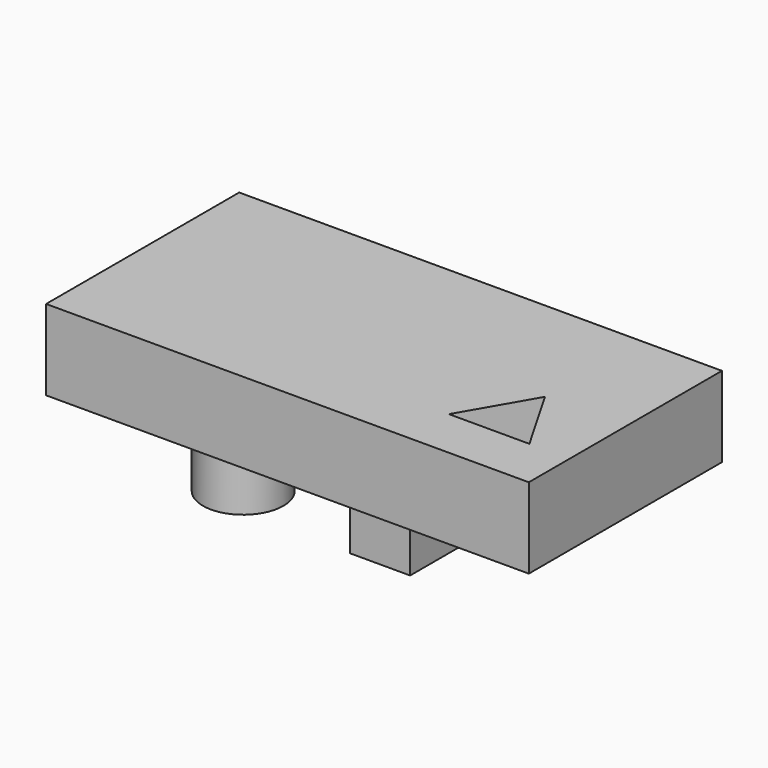
from build123d import *

# Parameters (mm, degrees)
F0_W     = 152.4
F0_H     = 76.2
F0_R     = 12.7
F1_DEPTH = 25.4
F2_DEPTH = 31.75


with BuildPart() as f1:
    # F0 (on Top) → F1 (new body)
    with BuildSketch(Plane.XY):
        with Locations((-38.1, 0)):
            Rectangle(F0_W, F0_H)
        Polygon((0, -21.997045), (12.7, 0), (25.4, -21.997045), align=None, mode=Mode.SUBTRACT)
        with Locations((-82.55, 0)):
            Circle(F0_R, mode=Mode.SUBTRACT)
        Polygon((-22.225, 9.525), (-22.225, 0), (-22.225, -9.525), (-41.275, -9.525), (-41.275, 0), (-41.275, 9.525), align=None, mode=Mode.SUBTRACT)
        with Locations((-82.55, 0)):
            Circle(F0_R)
        Polygon((-31.75, 0), (-22.225, 0), (-22.225, 9.525), (-41.275, 9.525), (-41.275, 0), align=None)
        Polygon((-22.225, -9.525), (-22.225, 0), (-31.75, 0), (-41.275, 0), (-41.275, -9.525), align=None)
    extrude(amount=F1_DEPTH)

    # F0 (on Top) → F2 (join)
    with BuildSketch(Plane.XY):
        with Locations((-82.55, 0)):
            Circle(F0_R)
        Polygon((-31.75, 0), (-22.225, 0), (-22.225, 9.525), (-41.275, 9.525), (-41.275, 0), align=None)
        Polygon((-22.225, -9.525), (-22.225, 0), (-31.75, 0), (-41.275, 0), (-41.275, -9.525), align=None)
    extrude(amount=-F2_DEPTH)


solid = f1.part
